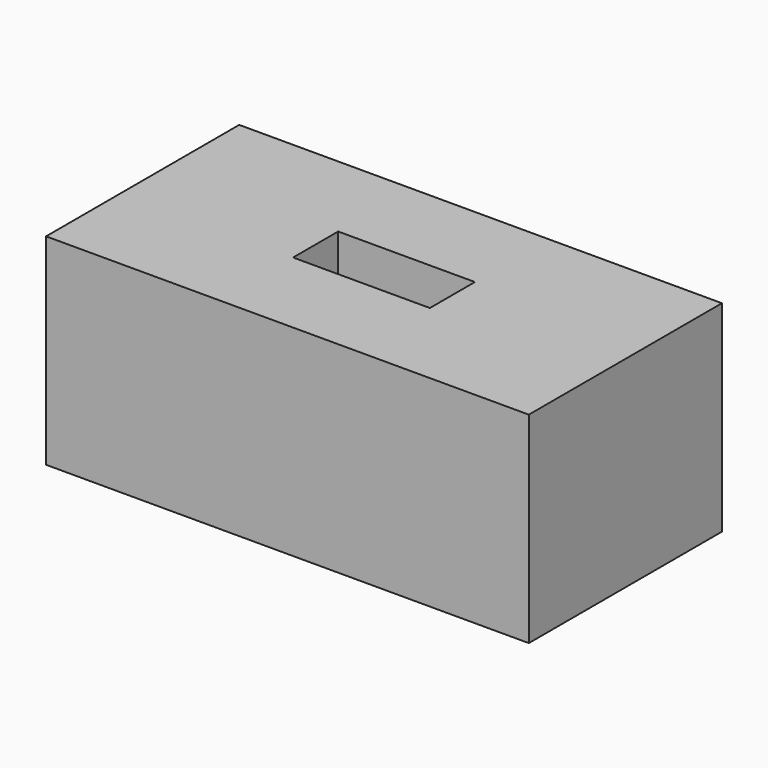
from build123d import *

# Parameters (mm, degrees)
PAD002_DEPTH               = 5
PAD002_MIRRORED002_2_DEPTH = 5


with BuildPart() as part:
    # Sketch004 → Pad002 (new body)
    with BuildSketch(Plane.XY):
        Polygon((6, 0), (6, 3), (0, 3), (0, 0.7), (1.7, 0.7), (1.7, 0), align=None)
    pad002 = extrude(amount=PAD002_DEPTH)

    # Sketch004 Mirrored002 2 → Pad002 Mirrored002 2 (add)
    with BuildSketch(Plane(origin=(0, 0, 0), x_dir=(-1, 0, 0), z_dir=(0, 0, -1))):
        Polygon((6, 0), (6, 3), (0, 3), (0, 0.7), (1.7, 0.7), (1.7, 0), align=None)
    pad002_mirrored002_2 = extrude(amount=-PAD002_MIRRORED002_2_DEPTH)

    # Mirrored003: Pad002, Pad002 Mirrored002 2 across Sketch004 H_Axis
    add(pad002.mirror(Plane.ZX))
    add(pad002_mirrored002_2.mirror(Plane.ZX))


solid = part.part
